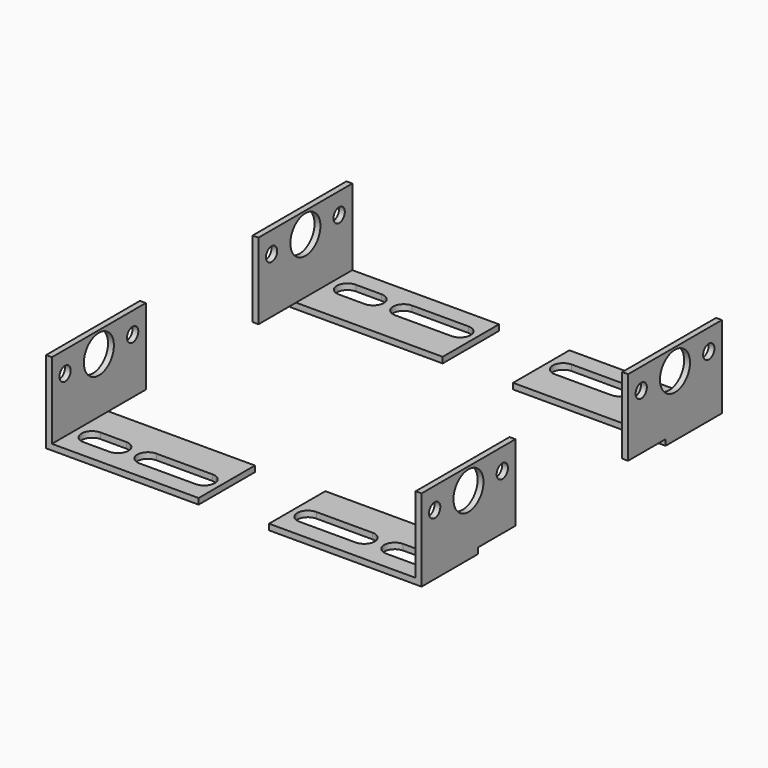
from build123d import *

# Parameters (mm, degrees)
F2_W      = 62.5
F2_H      = 2.5
F2_W_2    = 2.5
F3_DEPTH  = 30
F2_H_2    = 32.5
F4_DEPTH  = 50
F5_R      = 3
F5_R_2    = 8
F7_DEPTH  = 5
F8_DEPTH  = 5
F9_W      = 62.5
F9_H      = 2.5
F9_W_2    = 2.5
F10_DEPTH = 30
F9_H_2    = 32.5
F11_DEPTH = 50
F12_R     = 3
F12_R_2   = 8
F14_DEPTH = 5
F15_DEPTH = 5
F16_W     = 62.5
F16_H     = 2.5
F16_W_2   = 2.5
F17_DEPTH = 30
F16_H_2   = 32.5
F18_DEPTH = 50
F19_R     = 3
F19_R_2   = 8
F21_DEPTH = 5
F22_DEPTH = 5
F23_W     = 62.5
F23_H     = 2.5
F23_W_2   = 2.5
F24_DEPTH = 30
F23_H_2   = 32.5
F25_DEPTH = 50
F26_R     = 3
F26_R_2   = 8
F28_DEPTH = 5
F29_DEPTH = 5


with BuildPart() as f3:
    # F2 (on offset) → F3 (new body)
    with BuildSketch(Plane.XZ.offset(80)):
        with Locations((-46.25, 1.123145)):
            Rectangle(F2_W, F2_H)
        with Locations((-78.75, 1.123145)):
            Rectangle(F2_W_2, F2_H)
    extrude(amount=-F3_DEPTH)

    # F2 (on offset) → F4 (join)
    with BuildSketch(Plane.XZ.offset(80)):
        with Locations((-78.75, 18.623145)):
            Rectangle(F2_W_2, F2_H_2)
    extrude(amount=-F4_DEPTH)

    # F5 (on face) → F7 (cut, symmetric)
    with BuildSketch(Plane(origin=(-80, 0, 0), x_dir=(0, -1, 0), z_dir=(-1, 0, 0))):
        with Locations((37, 25.873145)):
            Circle(F5_R)
        with Locations((55, 25.873145)):
            Circle(F5_R_2)
        with Locations((73, 25.873145)):
            Circle(F5_R)
    extrude(amount=F7_DEPTH, both=True, mode=Mode.SUBTRACT)

    # F6 (on face) → F8 (cut, symmetric)
    with BuildSketch(Plane(origin=(0, 0, -0.126855), x_dir=(1, 0, 0), z_dir=(0, 0, -1))):
        with BuildLine():
            Line((-59, 72.5), (-70, 72.5))
            ThreePointArc((-70, 72.5), (-74.5, 68), (-70, 63.5))
            Line((-70, 63.5), (-59, 63.5))
            ThreePointArc((-59, 63.5), (-54.5, 68), (-59, 72.5))
        make_face()
        with BuildLine():
            Line((-22.003335, 72.794459), (-46.003335, 72.794459))
            ThreePointArc((-46.003335, 72.794459), (-50.503335, 68.294459), (-46.003335, 63.794459))
            Line((-46.003335, 63.794459), (-22.003335, 63.794459))
            ThreePointArc((-22.003335, 63.794459), (-17.503335, 68.294459), (-22.003335, 72.794459))
        make_face()
    extrude(amount=F8_DEPTH, both=True, mode=Mode.SUBTRACT)


with BuildPart() as f10:
    # F9 (on offset) → F10 (new body)
    with BuildSketch(Plane.XZ.offset(80)):
        with Locations((46.25, 1.25)):
            Rectangle(F9_W, F9_H)
        with Locations((78.75, 1.25)):
            Rectangle(F9_W_2, F9_H)
    extrude(amount=-F10_DEPTH)

    # F9 (on offset) → F11 (join)
    with BuildSketch(Plane.XZ.offset(80)):
        with Locations((78.75, 18.75)):
            Rectangle(F9_W_2, F9_H_2)
    extrude(amount=-F11_DEPTH)

    # F12 (on face) → F14 (cut, symmetric)
    with BuildSketch(Plane.YZ.offset(80)):
        with Locations((-73, 25.873145)):
            Circle(F12_R)
        with Locations((-55, 25.873145)):
            Circle(F12_R_2)
        with Locations((-37, 25.873145)):
            Circle(F12_R)
    extrude(amount=F14_DEPTH, both=True, mode=Mode.SUBTRACT)

    # F13 (on face) → F15 (cut, symmetric)
    with BuildSketch(Plane(origin=(0, 0, 0), x_dir=(1, 0, 0), z_dir=(0, 0, -1))):
        with BuildLine():
            Line((46.000139, 72.56005), (22.000139, 72.56005))
            ThreePointArc((22.000139, 72.56005), (17.500139, 68.06005), (22.000139, 63.56005))
            Line((22.000139, 63.56005), (46.000139, 63.56005))
            ThreePointArc((46.000139, 63.56005), (50.500139, 68.06005), (46.000139, 72.56005))
        make_face()
        with BuildLine():
            Line((70, 72.5), (59, 72.5))
            ThreePointArc((59, 72.5), (54.5, 68), (59, 63.5))
            Line((59, 63.5), (70, 63.5))
            ThreePointArc((70, 63.5), (74.5, 68), (70, 72.5))
        make_face()
    extrude(amount=F15_DEPTH, both=True, mode=Mode.SUBTRACT)


with BuildPart() as f17:
    # F16 (on offset) → F17 (new body)
    with BuildSketch(Plane.XZ.offset(-80)):
        with Locations((-46.25, 1.25)):
            Rectangle(F16_W, F16_H)
        with Locations((-78.75, 1.25)):
            Rectangle(F16_W_2, F16_H)
    extrude(amount=F17_DEPTH)

    # F16 (on offset) → F18 (join)
    with BuildSketch(Plane.XZ.offset(-80)):
        with Locations((-78.75, 18.75)):
            Rectangle(F16_W_2, F16_H_2)
    extrude(amount=F18_DEPTH)

    # F19 (on face) → F21 (cut, symmetric)
    with BuildSketch(Plane(origin=(-80, 0, 0), x_dir=(0, -1, 0), z_dir=(-1, 0, 0))):
        with Locations((-73, 26)):
            Circle(F19_R)
        with Locations((-55, 26)):
            Circle(F19_R_2)
        with Locations((-37, 26)):
            Circle(F19_R)
    extrude(amount=F21_DEPTH, both=True, mode=Mode.SUBTRACT)

    # F20 (on face) → F22 (cut, symmetric)
    with BuildSketch(Plane(origin=(0, 0, 0), x_dir=(1, 0, 0), z_dir=(0, 0, -1))):
        with BuildLine():
            Line((-59, -63.5), (-70, -63.5))
            ThreePointArc((-70, -63.5), (-74.5, -68), (-70, -72.5))
            Line((-70, -72.5), (-59, -72.5))
            ThreePointArc((-59, -72.5), (-54.5, -68), (-59, -63.5))
        make_face()
        with BuildLine():
            Line((-22, -63.5), (-46, -63.5))
            ThreePointArc((-46, -63.5), (-50.5, -68), (-46, -72.5))
            Line((-46, -72.5), (-22, -72.5))
            ThreePointArc((-22, -72.5), (-17.5, -68), (-22, -63.5))
        make_face()
    extrude(amount=F22_DEPTH, both=True, mode=Mode.SUBTRACT)


with BuildPart() as f24:
    # F23 (on offset) → F24 (new body)
    with BuildSketch(Plane.XZ.offset(-80)):
        with Locations((46.25, 1.25)):
            Rectangle(F23_W, F23_H)
        with Locations((78.75, 1.25)):
            Rectangle(F23_W_2, F23_H)
    extrude(amount=F24_DEPTH)

    # F23 (on offset) → F25 (join)
    with BuildSketch(Plane.XZ.offset(-80)):
        with Locations((78.75, 18.75)):
            Rectangle(F23_W_2, F23_H_2)
    extrude(amount=F25_DEPTH)

    # F26 (on face) → F28 (cut, symmetric)
    with BuildSketch(Plane.YZ.offset(80)):
        with Locations((37, 26)):
            Circle(F26_R)
        with Locations((55, 26)):
            Circle(F26_R_2)
        with Locations((73, 26)):
            Circle(F26_R)
    extrude(amount=F28_DEPTH, both=True, mode=Mode.SUBTRACT)

    # F27 (on face) → F29 (cut, symmetric)
    with BuildSketch(Plane(origin=(0, 0, 0), x_dir=(1, 0, 0), z_dir=(0, 0, -1))):
        with BuildLine():
            Line((22, -72.5), (46, -72.5))
            ThreePointArc((46, -72.5), (50.5, -68), (46, -63.5))
            Line((46, -63.5), (22, -63.5))
            ThreePointArc((22, -63.5), (17.5, -68), (22, -72.5))
        make_face()
        with BuildLine():
            Line((59, -72.5), (70, -72.5))
            ThreePointArc((70, -72.5), (74.5, -68), (70, -63.5))
            Line((70, -63.5), (59, -63.5))
            ThreePointArc((59, -63.5), (54.5, -68), (59, -72.5))
        make_face()
    extrude(amount=F29_DEPTH, both=True, mode=Mode.SUBTRACT)


solid = Compound([f3.part, f10.part, f17.part, f24.part])
